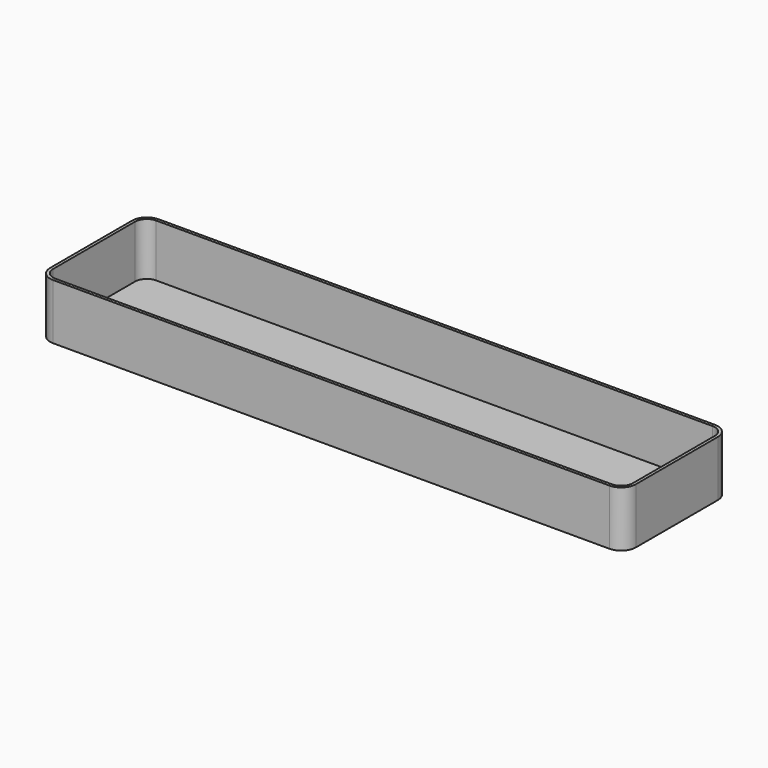
from build123d import *

# Parameters (mm, degrees)
SKETCH_W    = 200
SKETCH_H    = 45
PAD_DEPTH   = 19
FILLET_R    = 5
THICKNESS_T = -1


with BuildPart() as part:
    # Sketch → Pad (new body)
    with BuildSketch(Plane.XY):
        Rectangle(SKETCH_W, SKETCH_H)
    extrude(amount=PAD_DEPTH)

    # Fillet
    fillet_edges = [part.edges().sort_by_distance(p)[0] for p in [
        (-100, -22.5, 9.5),
        (-100, 22.5, 9.5),
        (100, -22.5, 9.5),
        (100, 22.5, 9.5),
    ]]
    fillet(fillet_edges, radius=FILLET_R)

    # Thickness
    thickness_openings = [part.faces().sort_by_distance(p)[0] for p in [
        (0, 0, 19),
    ]]
    offset(amount=THICKNESS_T, openings=thickness_openings)


solid = part.part
